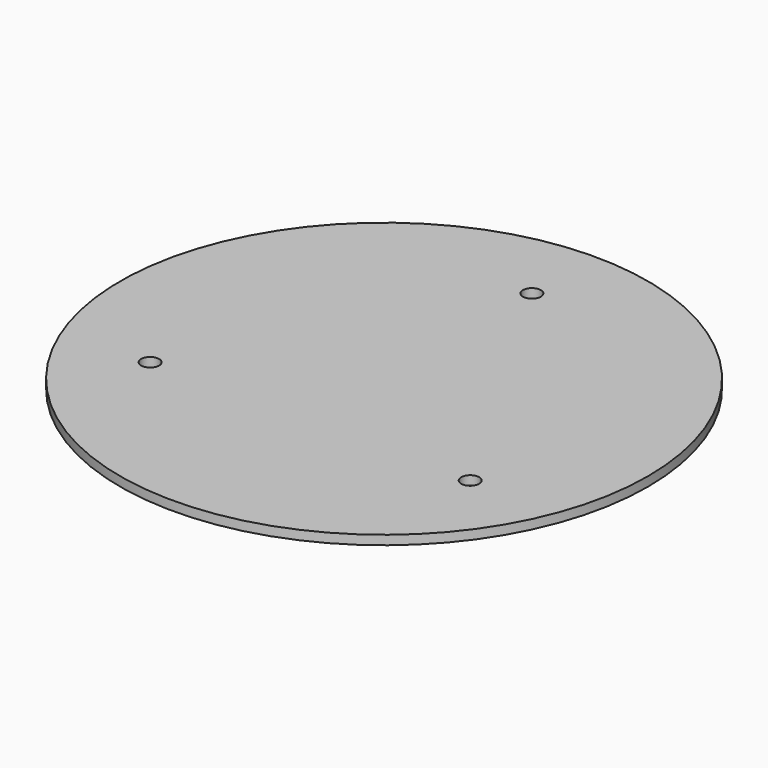
from build123d import *

# Parameters (mm, degrees)
SKETCH_R   = 100
SKETCH_R_2 = 3.4
PAD_DEPTH  = 3.5


with BuildPart() as part:
    # Sketch → Pad (new body)
    with BuildSketch(Plane.XY):
        Circle(SKETCH_R)
        with Locations((0, 70)):
            Circle(SKETCH_R_2, mode=Mode.SUBTRACT)
        with Locations((60.621778, -35)):
            Circle(SKETCH_R_2, mode=Mode.SUBTRACT)
        with Locations((-60.621778, -35)):
            Circle(SKETCH_R_2, mode=Mode.SUBTRACT)
    extrude(amount=PAD_DEPTH)


solid = part.part
